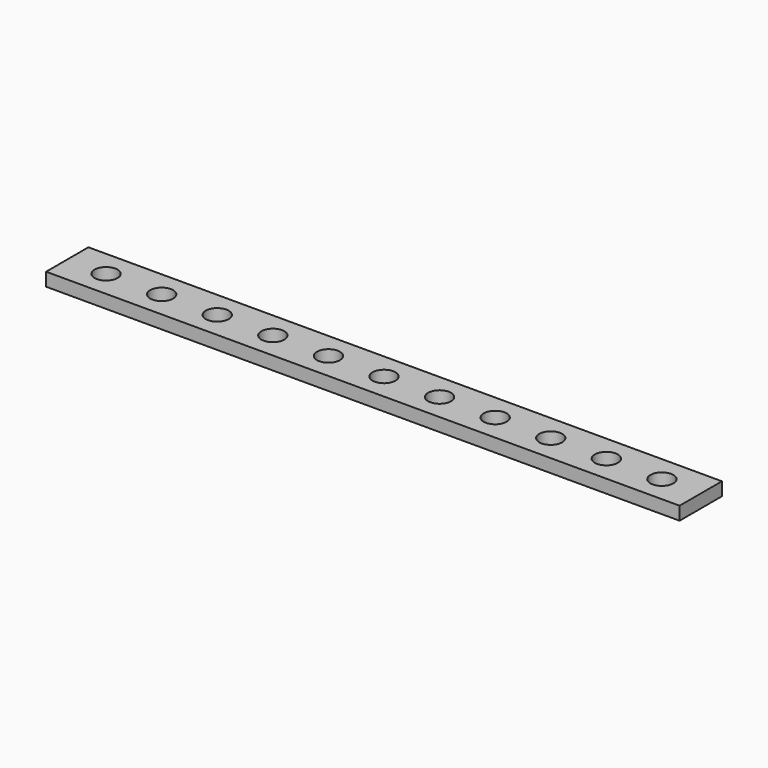
from build123d import *

# Parameters (mm, degrees)
F0_R     = 2.6
F1_DEPTH = 3


with BuildPart() as f1:
    # F0 (on Top) → F1 (new body)
    with BuildSketch(Plane.XY):
        Polygon((-71.8, 6), (-71.8, 0), (-71.8, -6), (71.8, -6), (71.8, 0), (71.8, 6), align=None)
        with Locations((-63, 0)):
            Circle(F0_R, mode=Mode.SUBTRACT)
        with Locations((-50.4, 0)):
            Circle(F0_R, mode=Mode.SUBTRACT)
        with Locations((-37.8, 0)):
            Circle(F0_R, mode=Mode.SUBTRACT)
        with Locations((-25.2, 0)):
            Circle(F0_R, mode=Mode.SUBTRACT)
        with Locations((-12.6, 0)):
            Circle(F0_R, mode=Mode.SUBTRACT)
        Circle(F0_R, mode=Mode.SUBTRACT)
        with Locations((12.6, 0)):
            Circle(F0_R, mode=Mode.SUBTRACT)
        with Locations((25.2, 0)):
            Circle(F0_R, mode=Mode.SUBTRACT)
        with Locations((37.8, 0)):
            Circle(F0_R, mode=Mode.SUBTRACT)
        with Locations((50.4, 0)):
            Circle(F0_R, mode=Mode.SUBTRACT)
        with Locations((63, 0)):
            Circle(F0_R, mode=Mode.SUBTRACT)
    extrude(amount=F1_DEPTH)


solid = f1.part
